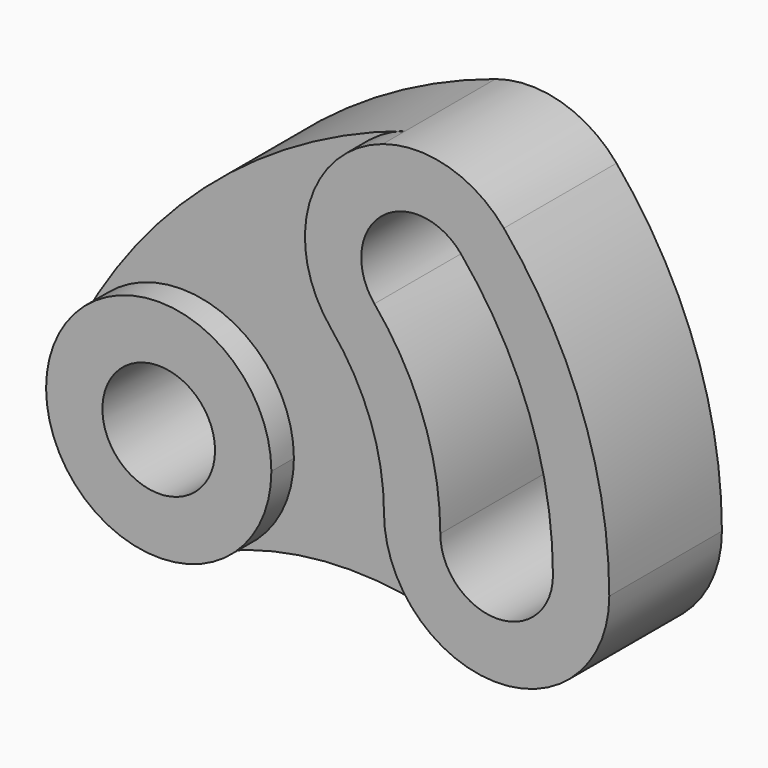
from build123d import *

# Parameters (mm, degrees)
F1_DEPTH = 25.4
F0_R     = 12.7
F2_DEPTH = 31.75


with BuildPart() as f1:
    # F0 (on Front) → F1 (new body)
    with BuildSketch(Plane.XZ):
        with BuildLine():
            ThreePointArc((-22.431927, 11.91506), (6.139587, 24.646815), (25.4, 0))
            ThreePointArc((25.4, 0), (21.060567, -14.199032), (9.525, -23.54643))
            ThreePointArc((9.525, -23.54643), (38.1, -17.985721), (66.675, -23.54643))
            ThreePointArc((66.675, -23.54643), (55.139433, -14.199032), (50.8, 0))
            ThreePointArc((50.8, 0), (47.736385, 17.374623), (38.915058, 32.653611))
            ThreePointArc((38.915058, 32.653611), (33.958025, 55.986785), (50.533806, 73.14058))
            ThreePointArc((50.533806, 73.14058), (8.093681, 49.627404), (-22.431927, 11.91506))
        make_face()
    extrude(amount=F1_DEPTH)

    # F0 (on Front) → F2 (join)
    with BuildSketch(Plane.XZ):
        with BuildLine():
            ThreePointArc((9.525, -23.54643), (21.060567, -14.199032), (25.4, 0))
            ThreePointArc((25.4, 0), (6.139587, 24.646815), (-22.431927, 11.91506))
            ThreePointArc((-22.431927, 11.91506), (-18.868665, -17.003926), (9.525, -23.54643))
        make_face()
        Circle(F0_R, mode=Mode.SUBTRACT)
        with BuildLine():
            ThreePointArc((77.830115, 65.307221), (65.378956, 73.394977), (50.533806, 73.14058))
            ThreePointArc((50.533806, 73.14058), (33.958025, 55.986785), (38.915058, 32.653611))
            ThreePointArc((38.915058, 32.653611), (47.736385, 17.374623), (50.8, 0))
            ThreePointArc((50.8, 0), (55.139433, -14.199032), (66.675, -23.54643))
            ThreePointArc((66.675, -23.54643), (90.399032, -21.060567), (101.6, 0))
            ThreePointArc((101.6, 0), (95.47277, 34.749247), (77.830115, 65.307221))
        make_face()
        with BuildLine():
            ThreePointArc((88.9, 0), (76.2, -12.7), (63.5, 0))
            ThreePointArc((63.5, 0), (59.670481, 21.718279), (48.643822, 40.817013))
            ThreePointArc((48.643822, 40.817013), (50.209184, 58.70918), (68.101351, 57.143819))
            ThreePointArc((68.101351, 57.143819), (83.538674, 30.405591), (88.9, 0))
        make_face(mode=Mode.SUBTRACT)
    extrude(amount=F2_DEPTH)


solid = f1.part
